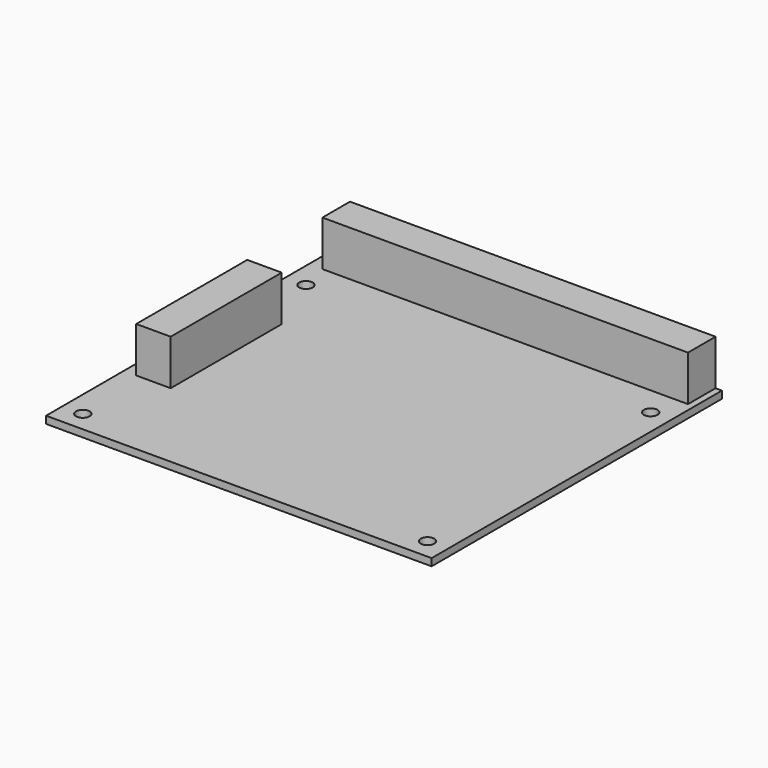
from build123d import *

# Parameters (mm, degrees)
F0_W      = 85
F0_H      = 80
F1_DEPTH  = 1.6
F2_W      = 7.6
F2_H      = 30.6
F3_DEPTH  = 10
F5_D      = 3
F7_D      = 3
F9_D      = 3
F11_D     = 3
F14_W     = 80.6
F14_H     = 7.6
F15_DEPTH = 10


with BuildPart() as f1:
    # F0 (on Top) → F1 (new body)
    with BuildSketch(Plane.XY):
        Rectangle(F0_W, F0_H)
    extrude(amount=F1_DEPTH)

    # F2 (on face) → F3 (join)
    with BuildSketch(Plane.XY.offset(1.6)):
        with Locations((-35.95, -3.3)):
            Rectangle(F2_W, F2_H)
    extrude(amount=F3_DEPTH)

    # F5 (through all)
    with Locations(Plane.XY.offset(1.6)):
        with Locations((-38, 26)):
            Hole(F5_D / 2)

    # F7 (through all)
    with Locations(Plane(origin=(0, 0, 0), x_dir=(1, 0, 0), z_dir=(0, 0, -1))):
        with Locations((38, -26)):
            Hole(F7_D / 2)

    # F9 (through all)
    with Locations(Plane.XY.offset(1.6)):
        with Locations((38, -35.5)):
            Hole(F9_D / 2)

    # F11 (through all)
    with Locations(Plane.XY.offset(1.6)):
        with Locations((-38, -35.5)):
            Hole(F11_D / 2)


with BuildPart() as f12_1:
    # F12: copy of F1
    add(f1.part)


with BuildPart() as f1_1:
    add(f1.part)

    # F14 (on face) → F15 (join)
    with BuildSketch(Plane.XY.offset(1.6)):
        with Locations((0.8, 36.2)):
            Rectangle(F14_W, F14_H)
    extrude(amount=F15_DEPTH)


solid = f1_1.part
